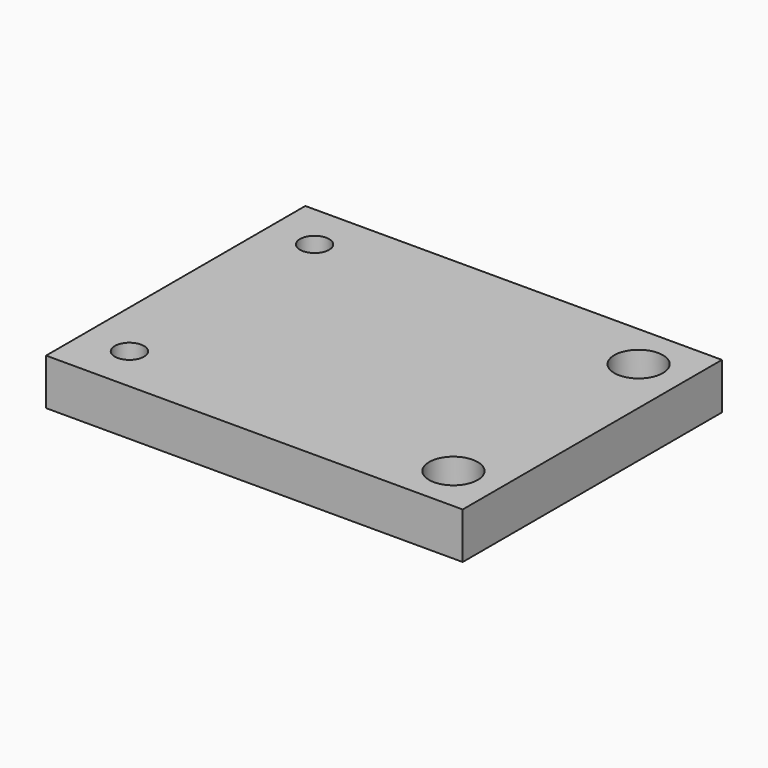
from build123d import *

# Parameters (mm, degrees)
F0_W     = 90
F0_H     = 70
F0_R     = 3.15
F0_R_2   = 3.25
F1_DEPTH = 10
F2_R     = 5.25
F3_DEPTH = 6.5


with BuildPart() as f1:
    # F0 (on Top) → F1 (new body)
    with BuildSketch(Plane.XY):
        with Locations((-3.780929, -13.259856)):
            Rectangle(F0_W, F0_H)
        with Locations((-38.780929, -38.259856)):
            Circle(F0_R, mode=Mode.SUBTRACT)
        with Locations((31.219071, -38.259856)):
            Circle(F0_R_2, mode=Mode.SUBTRACT)
        with Locations((-38.780929, 11.740144)):
            Circle(F0_R, mode=Mode.SUBTRACT)
        with Locations((31.219071, 11.740144)):
            Circle(F0_R_2, mode=Mode.SUBTRACT)
    extrude(amount=F1_DEPTH)

    # F2 (on face) → F3 (cut)
    with BuildSketch(Plane.XY.offset(10)):
        with Locations((31.219071, -38.259856)):
            Circle(F2_R)
        with Locations((31.219071, 11.740144)):
            Circle(F2_R)
    extrude(amount=-F3_DEPTH, mode=Mode.SUBTRACT)


solid = f1.part
